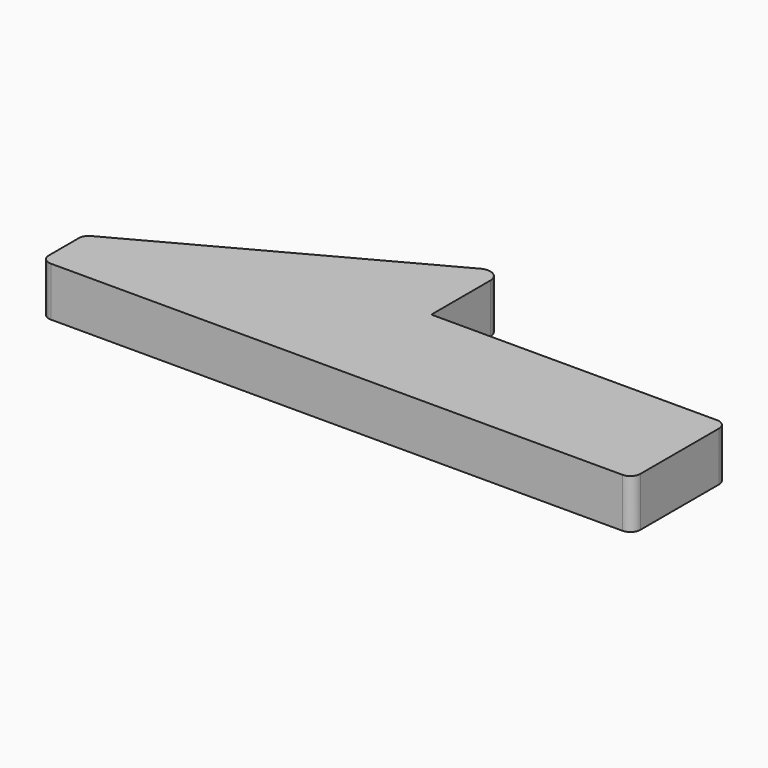
from build123d import *

# Parameters (mm, degrees)
F1_DEPTH = 6.35


with BuildPart() as f1:
    # F0 (on Top) → F1 (new body)
    with BuildSketch(Plane.XY):
        with BuildLine():
            ThreePointArc((52.952157, 17.634291), (52.580183, 18.532317), (51.682157, 18.904291))
            Line((51.682157, 18.904291), (14.852157, 18.904291))
            Line((14.852157, 18.904291), (14.852157, 28.413579))
            ThreePointArc((14.852157, 28.413579), (14.0717, 29.787865), (12.491624, 29.821603))
            Line((12.491624, 29.821603), (-22.581282, 10.882234))
            ThreePointArc((-22.581282, 10.882234), (-23.068546, 10.415343), (-23.247843, 9.764754))
            Line((-23.247843, 9.764754), (-23.247843, 4.934291))
            ThreePointArc((-23.247843, 4.934291), (-22.875868, 4.036266), (-21.977843, 3.664291))
            Line((-21.977843, 3.664291), (51.682157, 3.664291))
            ThreePointArc((51.682157, 3.664291), (52.580183, 4.036266), (52.952157, 4.934291))
            Line((52.952157, 4.934291), (52.952157, 17.634291))
        make_face()
    extrude(amount=F1_DEPTH)


solid = f1.part
